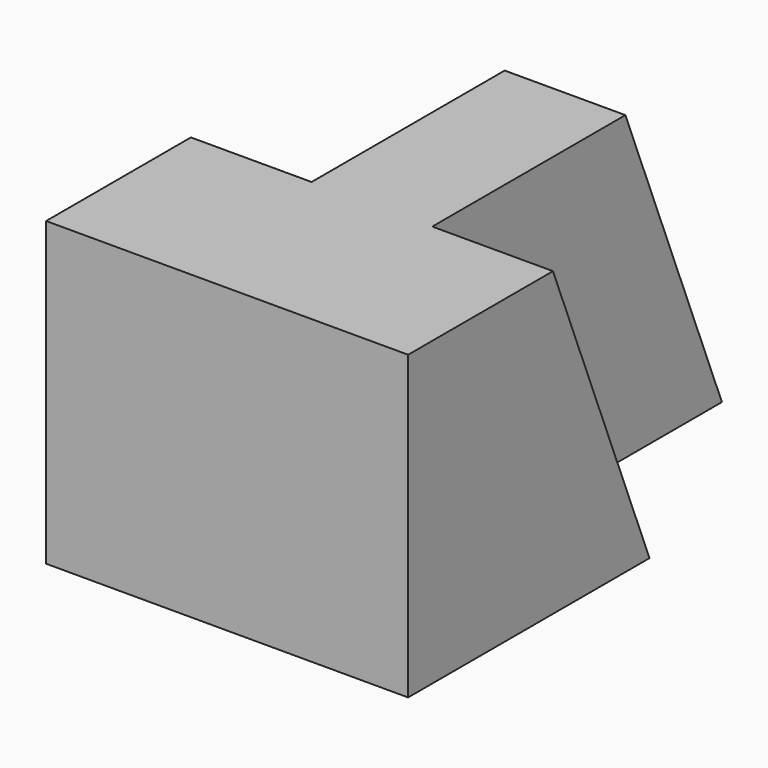
from build123d import *

# Parameters (mm, degrees)
F0_W     = 38.1
F0_H     = 57.15
F1_DEPTH = 31.75
F2_W     = 25.4
F2_H     = 31.75
F3_DEPTH = 76.2
F5_DEPTH = 12.7
F7_DEPTH = 12.7
F9_DEPTH = 25.4


with BuildPart() as f1:
    # F0 (on Top) → F1 (new body)
    with BuildSketch(Plane.XY):
        with Locations((19.05, 28.575)):
            Rectangle(F0_W, F0_H)
    extrude(amount=F1_DEPTH)

    # F2 (on face) → F3 (cut)
    with BuildSketch(Plane.XZ):
        with Locations((12.7, 15.875)):
            Rectangle(F2_W, F2_H)
    extrude(amount=-F3_DEPTH, mode=Mode.SUBTRACT)

    # F4 (on face) → F5 (join)
    with BuildSketch(Plane.YZ.offset(38.1)):
        Polygon((19.05, 31.75), (0, 31.75), (0, 0), (31.75, 0), align=None)
    extrude(amount=F5_DEPTH)

    # F6 (on face) → F7 (join)
    with BuildSketch(Plane(origin=(25.4, 0, 0), x_dir=(0, -1, 0), z_dir=(-1, 0, 0))):
        Polygon((0, 31.75), (-19.05, 31.75), (-31.75, 0), (0, 0), align=None)
    extrude(amount=F7_DEPTH)

    # F8 (on face) → F9 (cut)
    with BuildSketch(Plane.YZ.offset(38.1)):
        Polygon((57.15, 31.75), (44.45, 31.75), (57.15, 0), align=None)
    extrude(amount=-F9_DEPTH, mode=Mode.SUBTRACT)


solid = f1.part
